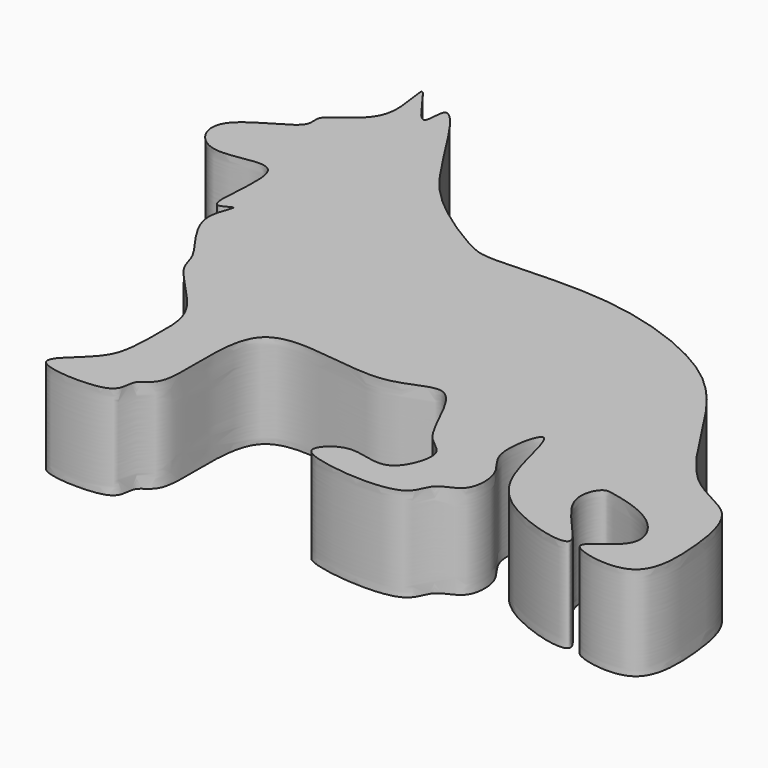
from build123d import *

# Parameters (mm, degrees)
F1_DEPTH = 9


with BuildPart() as f1:
    # F0 (on Top) → F1 (new body)
    with BuildSketch(Plane.XY):
        with BuildLine():
            add(Edge.make_bspline(
                [(-55.5330461467, 47.7128635602), (-53.8532606928, 45.0712506936), (-51.753806713, 42.0249785678), (-44.972542431, 37.613129776), (-42.3909538403, 36.8697980717), (-31.5538415463, 38.0476744664), (-20.5455704467, 34.2962535483), (-14.5440137617, 28.8825732218), (-8.8963045145, 17.8641471138), (-2.6268324038, 16.5750147777), (-1.4215385379, 10.3968852883), (-1.4069765607, 3.3222826022), (-7.5055151406, 4.1600178856), (-9.0109242837, 5.4285790668), (-4.3121177557, 7.5422184579), (-6.7678684257, 12.0775665971), (-11.5648632861, 13.1477297993), (-12.8121262346, 13.3482343956), (-14.3867954807, 9.8916872002), (-5.8583593842, 3.3351374749), (-17.9206503246, 6.4402679507), (-20.0070306383, 12.4293361136), (-21.454624399, 19.1294886308), (-22.938704658, 12.4372948891), (-20.2628287386, 10.7034257363), (-20.2143451349, 6.5167088987), (-23.2877084781, 6.1134263409), (-23.3461127316, 2.5643331768), (-32.6010456331, 3.3743905348), (-34.1844863904, 4.8818778207), (-31.5218534998, 7.3883451401), (-27.1719361329, 4.7948418089), (-25.2283698723, 10.4982452919), (-28.5341545472, 11.1737692787), (-31.1942643219, 20.3962948642), (-36.5708932193, 14.9779446295), (-51.2407279963, 20.636383191), (-48.0704365866, 5.9031964522), (-50.9867131136, 5.3107638593), (-50.8746621373, 3.5753657928), (-52.0649956855, 2.2557918506), (-59.8484292116, 2.6036494417), (-56.3275216465, 5.6766668735), (-54.3953399571, 7.6843952998), (-54.4089936728, 12.2553576849), (-54.2334712834, 16.6733773934), (-60.000218139, 21.3713724057), (-59.7394816276, 23.7536791169), (-64.4633425211, 28.5437111522), (-61.9213824286, 32.3977378778), (-65.2527038434, 29.5731754542), (-62.3481143529, 40.6852291707), (-70.1446826286, 36.4131186462), (-73.8368809138, 42.3273334238), (-65.9071851053, 44.8886839853), (-67.5221498346, 47.3628858959), (-61.6353612142, 49.2886862956), (-64.828903787, 58.0613688264), (-59.7882225195, 49.2823591846), (-60.6376428798, 55.9305012093), (-57.1939495485, 50.3247827112), (-55.5330461467, 47.7128635602)],
                knots=[0, 0, 0, 0, 0.0217753224, 0.0433221744, 0.0564840725, 0.0822728996, 0.1096215218, 0.132583941, 0.1600497606, 0.1787890088, 0.1981639966, 0.2173922248, 0.2349839363, 0.2433033812, 0.2586572175, 0.2745010217, 0.2920860731, 0.3000903233, 0.3136283814, 0.3337555249, 0.3549346434, 0.3769479185, 0.3927525594, 0.4086855313, 0.4231314962, 0.4375585581, 0.4498551464, 0.4623417262, 0.4855006446, 0.4953602337, 0.5082717786, 0.5242755671, 0.5400895422, 0.5534366192, 0.5749121565, 0.5933074021, 0.6200608586, 0.6455046429, 0.6568083821, 0.6660086118, 0.6763983181, 0.6955373876, 0.708407038, 0.7223092891, 0.7388049226, 0.7556856896, 0.7762899507, 0.788598388, 0.8085395542, 0.821072434, 0.8301659263, 0.8508757495, 0.8694191102, 0.8855424036, 0.905605495, 0.9156123391, 0.9333276781, 0.9503392689, 0.9673582334, 0.9784694486, 1, 1, 1, 1], degree=3))
        make_face()
    extrude(amount=F1_DEPTH)


solid = f1.part
